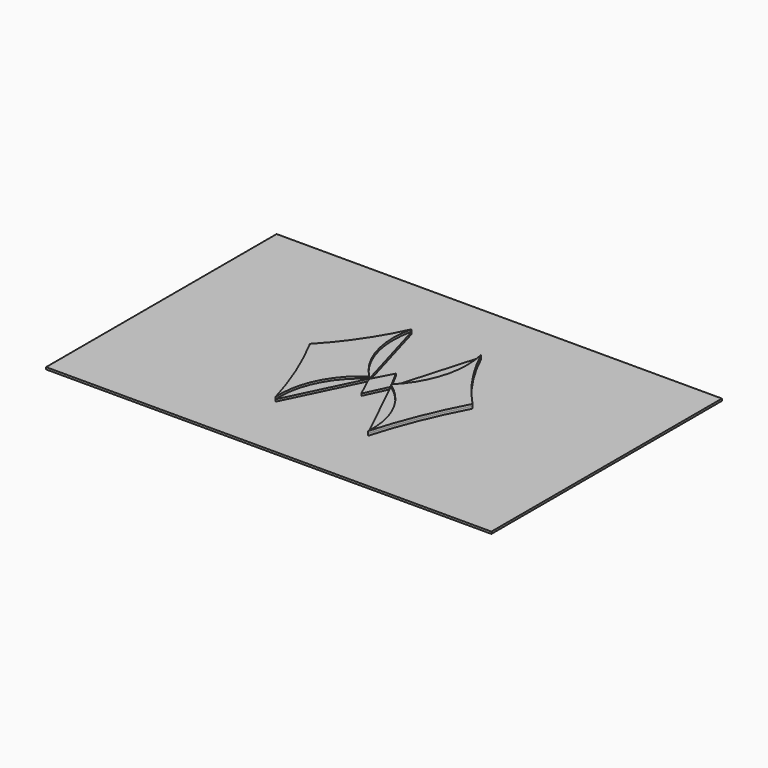
from build123d import *

# Parameters (mm, degrees)
F1_DEPTH = 0.4
F2_W     = 85
F2_H     = 55
F3_DEPTH = 0.4
F5_DEPTH = 0.4


with BuildPart() as f1:
    # F0 (on Top) → F1 (new body)
    with BuildSketch(Plane.XY):
        Polygon((-2.0565, -1.019582), (0, -5.426367), (2.0565, -1.019582), (0, 2.848596), align=None)
        with BuildLine():
            ThreePointArc((15.517817, 1.726592), (10.526359, 7.933479), (6.615495, 14.872156))
            Line((6.615495, 14.872156), (2.0565, -0.948094))
            Line((2.0565, -0.948094), (8.818777, -14.872156))
            ThreePointArc((8.818777, -14.872156), (11.731548, -6.396516), (15.517817, 1.726592))
        make_face()
        with BuildLine():
            Line((-2.0565, -0.948094), (-6.615495, 14.872156))
            ThreePointArc((-6.615495, 14.872156), (-10.526359, 7.933479), (-15.517817, 1.726592))
            ThreePointArc((-15.517817, 1.726592), (-11.731548, -6.396516), (-8.818777, -14.872156))
            Line((-8.818777, -14.872156), (-2.0565, -0.948094))
        make_face()
    extrude(amount=F1_DEPTH)


with BuildPart() as f3:
    # F2 (on Top) → F3 (new body)
    with BuildSketch(Plane.XY):
        Rectangle(F2_W, F2_H)
    extrude(amount=-F3_DEPTH)


with BuildPart() as f5:
    # F4 (on face) → F5 (new body)
    with BuildSketch(Plane.XY.offset(0.4)):
        with BuildLine():
            ThreePointArc((-8.818777, -14.872156), (-7.297963, -7.006651), (-2.0565, -0.948094))
            ThreePointArc((-2.0565, -0.948094), (-6.397488, 6.367962), (-6.615495, 14.872156))
            ThreePointArc((-6.615495, 14.872156), (-10.526359, 7.933479), (-15.517817, 1.726592))
            ThreePointArc((-15.517817, 1.726592), (-11.731548, -6.396516), (-8.818777, -14.872156))
        make_face()
        with BuildLine():
            ThreePointArc((6.615495, 14.872156), (6.397488, 6.367962), (2.0565, -0.948094))
            ThreePointArc((2.0565, -0.948094), (7.297963, -7.006651), (8.818777, -14.872156))
            ThreePointArc((8.818777, -14.872156), (11.731548, -6.396516), (15.517817, 1.726592))
            ThreePointArc((15.517817, 1.726592), (10.526359, 7.933479), (6.615495, 14.872156))
        make_face()
    extrude(amount=F5_DEPTH)


solid = Compound([f1.part, f3.part, f5.part])
